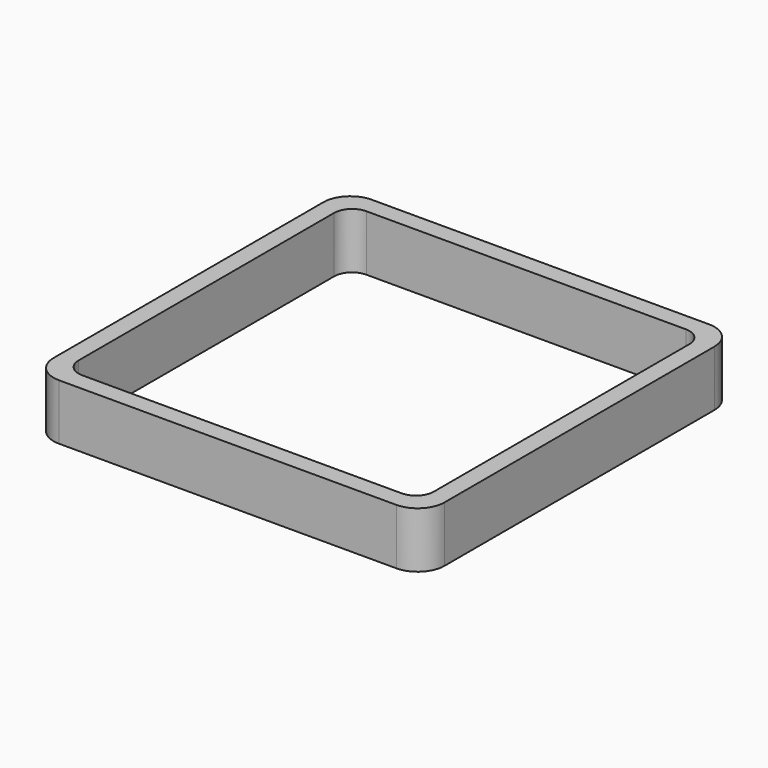
from build123d import *

# Parameters (mm, degrees)
EXTRUDE_DEPTH = 50


with BuildPart() as part:
    # Sketch → Extrude (new body)
    with BuildSketch(Plane.XY):
        with BuildLine():
            Line((-151, 175), (151, 175))
            ThreePointArc((175, 151), (167.970563, 167.970563), (151, 175))
            Line((175, 151), (175, -151))
            ThreePointArc((151, -175), (167.970563, -167.970563), (175, -151))
            Line((151, -175), (-151, -175))
            ThreePointArc((-175, -151), (-167.970563, -167.970563), (-151, -175))
            Line((-175, -151), (-175, 151))
            ThreePointArc((-151, 175), (-167.970563, 167.970563), (-175, 151))
        make_face()
        with BuildLine():
            Line((-143, 159), (143, 159))
            ThreePointArc((159, 143), (154.313708, 154.313708), (143, 159))
            Line((159, 143), (159, -143))
            ThreePointArc((143, -159), (154.313708, -154.313708), (159, -143))
            Line((143, -159), (-143, -159))
            ThreePointArc((-159, -143), (-154.313708, -154.313708), (-143, -159))
            Line((-159, -143), (-159, 143))
            ThreePointArc((-143, 159), (-154.313708, 154.313708), (-159, 143))
        make_face(mode=Mode.SUBTRACT)
    extrude(amount=EXTRUDE_DEPTH)


solid = part.part
